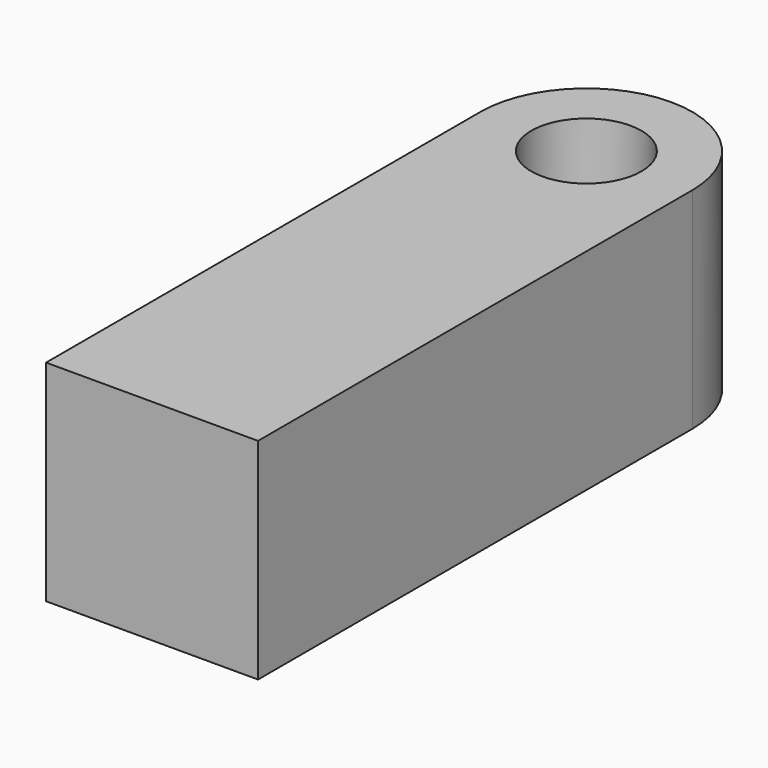
from build123d import *

# Parameters (mm, degrees)
F0_R     = 13.310774
F1_DEPTH = 50.8


with BuildPart() as f1:
    # F0 (on Top) → F1 (new body)
    with BuildSketch(Plane.XY):
        with BuildLine():
            Line((-25.618967, -65.623969), (25.618967, -65.623969))
            Line((25.618967, -65.623969), (25.618967, 65.623969))
            ThreePointArc((25.618967, 65.623969), (0, 91.242936), (-25.618967, 65.623969))
            Line((-25.618967, 65.623969), (-25.618967, -65.623969))
        make_face()
        with Locations((0, 65.623969)):
            Circle(F0_R, mode=Mode.SUBTRACT)
    extrude(amount=F1_DEPTH)


solid = f1.part
